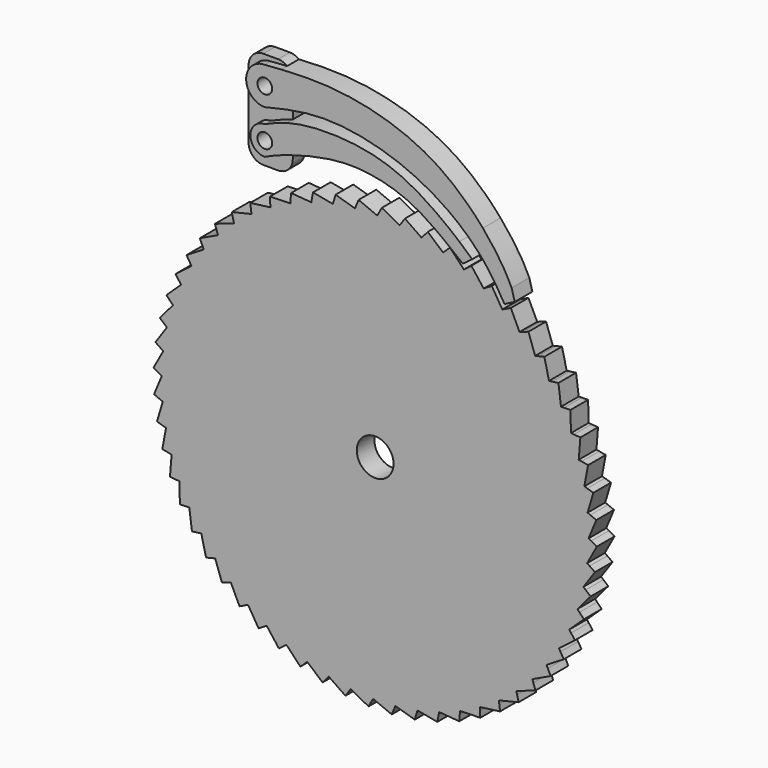
from build123d import *

# Parameters (mm, degrees)
F1_DEPTH = 3
F2_COUNT = 60
F0_R     = 2.5
F3_DEPTH = 3
F0_R_2   = 1
F4_DEPTH = 2
F5_DEPTH = 3
F6_DEPTH = 3


with BuildPart() as f1:
    # F0 (on Front) → F1 (new body)
    with BuildSketch(Plane.XZ):
        with BuildLine():
            ThreePointArc((22.1246115229, 8.6226173827), (23.4884179366, 7.9554183054), (24.8154367993, 7.2177574885))
            Line((24.8154367993, 7.2177574885), (23.1454847076, 9.4028260095))
            Line((23.1454847076, 9.4028260095), (22.4481243823, 8.8698640805))
            Line((22.4481243823, 8.8698640805), (22.1246115229, 8.6226173827))
        make_face()
    extrude(amount=F1_DEPTH)


with BuildPart() as f2_1:
    # F2: instance of F1
    add(f1.part.rotate(Axis((10.0668623269, 0, -17.7518150154), (0, -1, 0)), 1 * 360 / F2_COUNT))


with BuildPart() as f2_2:
    # F2: instance of F1
    add(f1.part.rotate(Axis((10.0668623269, 0, -17.7518150154), (0, -1, 0)), 2 * 360 / F2_COUNT))


with BuildPart() as f2_3:
    # F2: instance of F1
    add(f1.part.rotate(Axis((10.0668623269, 0, -17.7518150154), (0, -1, 0)), 3 * 360 / F2_COUNT))


with BuildPart() as f2_4:
    # F2: instance of F1
    add(f1.part.rotate(Axis((10.0668623269, 0, -17.7518150154), (0, -1, 0)), 4 * 360 / F2_COUNT))


with BuildPart() as f2_5:
    # F2: instance of F1
    add(f1.part.rotate(Axis((10.0668623269, 0, -17.7518150154), (0, -1, 0)), 5 * 360 / F2_COUNT))


with BuildPart() as f2_6:
    # F2: instance of F1
    add(f1.part.rotate(Axis((10.0668623269, 0, -17.7518150154), (0, -1, 0)), 6 * 360 / F2_COUNT))


with BuildPart() as f2_7:
    # F2: instance of F1
    add(f1.part.rotate(Axis((10.0668623269, 0, -17.7518150154), (0, -1, 0)), 7 * 360 / F2_COUNT))


with BuildPart() as f2_8:
    # F2: instance of F1
    add(f1.part.rotate(Axis((10.0668623269, 0, -17.7518150154), (0, -1, 0)), 8 * 360 / F2_COUNT))


with BuildPart() as f2_9:
    # F2: instance of F1
    add(f1.part.rotate(Axis((10.0668623269, 0, -17.7518150154), (0, -1, 0)), 9 * 360 / F2_COUNT))


with BuildPart() as f2_10:
    # F2: instance of F1
    add(f1.part.rotate(Axis((10.0668623269, 0, -17.7518150154), (0, -1, 0)), 10 * 360 / F2_COUNT))


with BuildPart() as f2_11:
    # F2: instance of F1
    add(f1.part.rotate(Axis((10.0668623269, 0, -17.7518150154), (0, -1, 0)), 11 * 360 / F2_COUNT))


with BuildPart() as f2_12:
    # F2: instance of F1
    add(f1.part.rotate(Axis((10.0668623269, 0, -17.7518150154), (0, -1, 0)), 12 * 360 / F2_COUNT))


with BuildPart() as f2_13:
    # F2: instance of F1
    add(f1.part.rotate(Axis((10.0668623269, 0, -17.7518150154), (0, -1, 0)), 13 * 360 / F2_COUNT))


with BuildPart() as f2_14:
    # F2: instance of F1
    add(f1.part.rotate(Axis((10.0668623269, 0, -17.7518150154), (0, -1, 0)), 14 * 360 / F2_COUNT))


with BuildPart() as f2_15:
    # F2: instance of F1
    add(f1.part.rotate(Axis((10.0668623269, 0, -17.7518150154), (0, -1, 0)), 15 * 360 / F2_COUNT))


with BuildPart() as f2_16:
    # F2: instance of F1
    add(f1.part.rotate(Axis((10.0668623269, 0, -17.7518150154), (0, -1, 0)), 16 * 360 / F2_COUNT))


with BuildPart() as f2_17:
    # F2: instance of F1
    add(f1.part.rotate(Axis((10.0668623269, 0, -17.7518150154), (0, -1, 0)), 17 * 360 / F2_COUNT))


with BuildPart() as f2_18:
    # F2: instance of F1
    add(f1.part.rotate(Axis((10.0668623269, 0, -17.7518150154), (0, -1, 0)), 18 * 360 / F2_COUNT))


with BuildPart() as f2_19:
    # F2: instance of F1
    add(f1.part.rotate(Axis((10.0668623269, 0, -17.7518150154), (0, -1, 0)), 19 * 360 / F2_COUNT))


with BuildPart() as f2_20:
    # F2: instance of F1
    add(f1.part.rotate(Axis((10.0668623269, 0, -17.7518150154), (0, -1, 0)), 20 * 360 / F2_COUNT))


with BuildPart() as f2_21:
    # F2: instance of F1
    add(f1.part.rotate(Axis((10.0668623269, 0, -17.7518150154), (0, -1, 0)), 21 * 360 / F2_COUNT))


with BuildPart() as f2_22:
    # F2: instance of F1
    add(f1.part.rotate(Axis((10.0668623269, 0, -17.7518150154), (0, -1, 0)), 22 * 360 / F2_COUNT))


with BuildPart() as f2_23:
    # F2: instance of F1
    add(f1.part.rotate(Axis((10.0668623269, 0, -17.7518150154), (0, -1, 0)), 23 * 360 / F2_COUNT))


with BuildPart() as f2_24:
    # F2: instance of F1
    add(f1.part.rotate(Axis((10.0668623269, 0, -17.7518150154), (0, -1, 0)), 24 * 360 / F2_COUNT))


with BuildPart() as f2_25:
    # F2: instance of F1
    add(f1.part.rotate(Axis((10.0668623269, 0, -17.7518150154), (0, -1, 0)), 25 * 360 / F2_COUNT))


with BuildPart() as f2_26:
    # F2: instance of F1
    add(f1.part.rotate(Axis((10.0668623269, 0, -17.7518150154), (0, -1, 0)), 26 * 360 / F2_COUNT))


with BuildPart() as f2_27:
    # F2: instance of F1
    add(f1.part.rotate(Axis((10.0668623269, 0, -17.7518150154), (0, -1, 0)), 27 * 360 / F2_COUNT))


with BuildPart() as f2_28:
    # F2: instance of F1
    add(f1.part.rotate(Axis((10.0668623269, 0, -17.7518150154), (0, -1, 0)), 28 * 360 / F2_COUNT))


with BuildPart() as f2_29:
    # F2: instance of F1
    add(f1.part.rotate(Axis((10.0668623269, 0, -17.7518150154), (0, -1, 0)), 29 * 360 / F2_COUNT))


with BuildPart() as f2_30:
    # F2: instance of F1
    add(f1.part.rotate(Axis((10.0668623269, 0, -17.7518150154), (0, -1, 0)), 30 * 360 / F2_COUNT))


with BuildPart() as f2_31:
    # F2: instance of F1
    add(f1.part.rotate(Axis((10.0668623269, 0, -17.7518150154), (0, -1, 0)), 31 * 360 / F2_COUNT))


with BuildPart() as f2_32:
    # F2: instance of F1
    add(f1.part.rotate(Axis((10.0668623269, 0, -17.7518150154), (0, -1, 0)), 32 * 360 / F2_COUNT))


with BuildPart() as f2_33:
    # F2: instance of F1
    add(f1.part.rotate(Axis((10.0668623269, 0, -17.7518150154), (0, -1, 0)), 33 * 360 / F2_COUNT))


with BuildPart() as f2_34:
    # F2: instance of F1
    add(f1.part.rotate(Axis((10.0668623269, 0, -17.7518150154), (0, -1, 0)), 34 * 360 / F2_COUNT))


with BuildPart() as f2_35:
    # F2: instance of F1
    add(f1.part.rotate(Axis((10.0668623269, 0, -17.7518150154), (0, -1, 0)), 35 * 360 / F2_COUNT))


with BuildPart() as f2_36:
    # F2: instance of F1
    add(f1.part.rotate(Axis((10.0668623269, 0, -17.7518150154), (0, -1, 0)), 36 * 360 / F2_COUNT))


with BuildPart() as f2_37:
    # F2: instance of F1
    add(f1.part.rotate(Axis((10.0668623269, 0, -17.7518150154), (0, -1, 0)), 37 * 360 / F2_COUNT))


with BuildPart() as f2_38:
    # F2: instance of F1
    add(f1.part.rotate(Axis((10.0668623269, 0, -17.7518150154), (0, -1, 0)), 38 * 360 / F2_COUNT))


with BuildPart() as f2_39:
    # F2: instance of F1
    add(f1.part.rotate(Axis((10.0668623269, 0, -17.7518150154), (0, -1, 0)), 39 * 360 / F2_COUNT))


with BuildPart() as f2_40:
    # F2: instance of F1
    add(f1.part.rotate(Axis((10.0668623269, 0, -17.7518150154), (0, -1, 0)), 40 * 360 / F2_COUNT))


with BuildPart() as f2_41:
    # F2: instance of F1
    add(f1.part.rotate(Axis((10.0668623269, 0, -17.7518150154), (0, -1, 0)), 41 * 360 / F2_COUNT))


with BuildPart() as f2_42:
    # F2: instance of F1
    add(f1.part.rotate(Axis((10.0668623269, 0, -17.7518150154), (0, -1, 0)), 42 * 360 / F2_COUNT))


with BuildPart() as f2_43:
    # F2: instance of F1
    add(f1.part.rotate(Axis((10.0668623269, 0, -17.7518150154), (0, -1, 0)), 43 * 360 / F2_COUNT))


with BuildPart() as f2_44:
    # F2: instance of F1
    add(f1.part.rotate(Axis((10.0668623269, 0, -17.7518150154), (0, -1, 0)), 44 * 360 / F2_COUNT))


with BuildPart() as f2_45:
    # F2: instance of F1
    add(f1.part.rotate(Axis((10.0668623269, 0, -17.7518150154), (0, -1, 0)), 45 * 360 / F2_COUNT))


with BuildPart() as f2_46:
    # F2: instance of F1
    add(f1.part.rotate(Axis((10.0668623269, 0, -17.7518150154), (0, -1, 0)), 46 * 360 / F2_COUNT))


with BuildPart() as f2_47:
    # F2: instance of F1
    add(f1.part.rotate(Axis((10.0668623269, 0, -17.7518150154), (0, -1, 0)), 47 * 360 / F2_COUNT))


with BuildPart() as f2_48:
    # F2: instance of F1
    add(f1.part.rotate(Axis((10.0668623269, 0, -17.7518150154), (0, -1, 0)), 48 * 360 / F2_COUNT))


with BuildPart() as f2_49:
    # F2: instance of F1
    add(f1.part.rotate(Axis((10.0668623269, 0, -17.7518150154), (0, -1, 0)), 49 * 360 / F2_COUNT))


with BuildPart() as f2_50:
    # F2: instance of F1
    add(f1.part.rotate(Axis((10.0668623269, 0, -17.7518150154), (0, -1, 0)), 50 * 360 / F2_COUNT))


with BuildPart() as f2_51:
    # F2: instance of F1
    add(f1.part.rotate(Axis((10.0668623269, 0, -17.7518150154), (0, -1, 0)), 51 * 360 / F2_COUNT))


with BuildPart() as f2_52:
    # F2: instance of F1
    add(f1.part.rotate(Axis((10.0668623269, 0, -17.7518150154), (0, -1, 0)), 52 * 360 / F2_COUNT))


with BuildPart() as f2_53:
    # F2: instance of F1
    add(f1.part.rotate(Axis((10.0668623269, 0, -17.7518150154), (0, -1, 0)), 53 * 360 / F2_COUNT))


with BuildPart() as f2_54:
    # F2: instance of F1
    add(f1.part.rotate(Axis((10.0668623269, 0, -17.7518150154), (0, -1, 0)), 54 * 360 / F2_COUNT))


with BuildPart() as f2_55:
    # F2: instance of F1
    add(f1.part.rotate(Axis((10.0668623269, 0, -17.7518150154), (0, -1, 0)), 55 * 360 / F2_COUNT))


with BuildPart() as f2_56:
    # F2: instance of F1
    add(f1.part.rotate(Axis((10.0668623269, 0, -17.7518150154), (0, -1, 0)), 56 * 360 / F2_COUNT))


with BuildPart() as f2_57:
    # F2: instance of F1
    add(f1.part.rotate(Axis((10.0668623269, 0, -17.7518150154), (0, -1, 0)), 57 * 360 / F2_COUNT))


with BuildPart() as f2_58:
    # F2: instance of F1
    add(f1.part.rotate(Axis((10.0668623269, 0, -17.7518150154), (0, -1, 0)), 58 * 360 / F2_COUNT))


with BuildPart() as f2_59:
    # F2: instance of F1
    add(f1.part.rotate(Axis((10.0668623269, 0, -17.7518150154), (0, -1, 0)), 59 * 360 / F2_COUNT))


with BuildPart() as f1_1:
    add(f1.part)

    add(f2_1.part)  # F3 merges F2_1

    add(f2_2.part)  # F3 merges F2_2

    add(f2_3.part)  # F3 merges F2_3

    add(f2_4.part)  # F3 merges F2_4

    add(f2_5.part)  # F3 merges F2_5

    add(f2_6.part)  # F3 merges F2_6

    add(f2_7.part)  # F3 merges F2_7

    add(f2_8.part)  # F3 merges F2_8

    add(f2_9.part)  # F3 merges F2_9

    add(f2_10.part)  # F3 merges F2_10

    add(f2_11.part)  # F3 merges F2_11

    add(f2_12.part)  # F3 merges F2_12

    add(f2_13.part)  # F3 merges F2_13

    add(f2_14.part)  # F3 merges F2_14

    add(f2_15.part)  # F3 merges F2_15

    add(f2_16.part)  # F3 merges F2_16

    add(f2_17.part)  # F3 merges F2_17

    add(f2_18.part)  # F3 merges F2_18

    add(f2_19.part)  # F3 merges F2_19

    add(f2_20.part)  # F3 merges F2_20

    add(f2_21.part)  # F3 merges F2_21

    add(f2_22.part)  # F3 merges F2_22

    add(f2_23.part)  # F3 merges F2_23

    add(f2_24.part)  # F3 merges F2_24

    add(f2_25.part)  # F3 merges F2_25

    add(f2_26.part)  # F3 merges F2_26

    add(f2_27.part)  # F3 merges F2_27

    add(f2_28.part)  # F3 merges F2_28

    add(f2_29.part)  # F3 merges F2_29

    add(f2_30.part)  # F3 merges F2_30

    add(f2_31.part)  # F3 merges F2_31

    add(f2_32.part)  # F3 merges F2_32

    add(f2_33.part)  # F3 merges F2_33

    add(f2_34.part)  # F3 merges F2_34

    add(f2_35.part)  # F3 merges F2_35

    add(f2_36.part)  # F3 merges F2_36

    add(f2_37.part)  # F3 merges F2_37

    add(f2_38.part)  # F3 merges F2_38

    add(f2_39.part)  # F3 merges F2_39

    add(f2_40.part)  # F3 merges F2_40

    add(f2_41.part)  # F3 merges F2_41

    add(f2_42.part)  # F3 merges F2_42

    add(f2_43.part)  # F3 merges F2_43

    add(f2_44.part)  # F3 merges F2_44

    add(f2_45.part)  # F3 merges F2_45

    add(f2_46.part)  # F3 merges F2_46

    add(f2_47.part)  # F3 merges F2_47

    add(f2_48.part)  # F3 merges F2_48

    add(f2_49.part)  # F3 merges F2_49

    add(f2_50.part)  # F3 merges F2_50

    add(f2_51.part)  # F3 merges F2_51

    add(f2_52.part)  # F3 merges F2_52

    add(f2_53.part)  # F3 merges F2_53

    add(f2_54.part)  # F3 merges F2_54

    add(f2_55.part)  # F3 merges F2_55

    add(f2_56.part)  # F3 merges F2_56

    add(f2_57.part)  # F3 merges F2_57

    add(f2_58.part)  # F3 merges F2_58

    add(f2_59.part)  # F3 merges F2_59
    # F0 (on Front) → F3 (join)
    with BuildSketch(Plane.XZ):
        with BuildLine():
            ThreePointArc((22.1246115229, 8.6226173827), (-14.3326738028, -33.4254437165), (39.0668623269, -17.7518150154))
            ThreePointArc((39.0668623269, -17.7518150154), (35.2532540861, -3.376639533), (24.8154367993, 7.2177574885))
            ThreePointArc((24.8154367993, 7.2177574885), (23.4884179366, 7.9554183054), (22.1246115229, 8.6226173827))
        make_face()
        with Locations((10.0668623269, -17.7518150154)):
            Circle(F0_R, mode=Mode.SUBTRACT)
    extrude(amount=F3_DEPTH)


with BuildPart() as f4:
    # F0 (on Front) → F4 (new body)
    with BuildSketch(Plane.XZ):
        with BuildLine():
            Line((-1.9331376731, 13.5972878534), (-1.9331376731, 14.5003558889))
            add(Edge.make_bspline(
                [(-4.958086005, 13.291901514), (-4.0169314096, 13.7500103955), (-3.0560498434, 14.1342507584), (-1.9331376731, 14.5003558889)],
                knots=[0, 0, 0, 0, 0.1352279707, 0.1352279707, 0.1352279707, 0.1352279707], degree=3))
            ThreePointArc((-4.958086005, 13.291901514), (-6.8895801398, 15.2476273309), (-4.9592012175, 17.2044539149))
            add(Edge.make_bspline(
                [(-4.9592012175, 17.2044539149), (-4.001760885, 17.6295620038), (-3.0344897831, 18.0275642256), (-1.9331376731, 18.335814268)],
                knots=[0, 0, 0, 0, 0.124109499, 0.124109499, 0.124109499, 0.124109499], degree=3))
            Line((-1.9331376731, 18.335814268), (-1.9331376731, 19.9359586966))
            add(Edge.make_bspline(
                [(-4.9610109698, 19.2411155336), (-3.9572175272, 19.4919216837), (-2.950348565, 19.7332965552), (-1.9331376731, 19.9359586966)],
                knots=[0, 0, 0, 0, 0.0824329006, 0.0824329006, 0.0824329006, 0.0824329006], degree=3))
            ThreePointArc((-4.9610109698, 19.2411155336), (-7.4704980477, 21.7762591858), (-4.9651396052, 24.3154830449))
            add(Edge.make_bspline(
                [(-4.9651396052, 24.3154830449), (-4.2116261683, 24.3756750122), (-3.4574308205, 24.4339151084), (-2.6977201605, 24.4828909271)],
                knots=[0, 0, 0, 0, 0.0575688257, 0.0575688257, 0.0575688257, 0.0575688257], degree=3))
            ThreePointArc((-2.6977201605, 24.4828909271), (-3.2795429223, 24.8002658788), (-3.9331376731, 24.9100770253))
            Line((-3.9331376731, 24.9100770253), (-5.9331376731, 24.9100770253))
            ThreePointArc((-5.9331376731, 24.9100770253), (-7.3473512355, 24.3242905877), (-7.9331376731, 22.9100770253))
            Line((-7.9331376731, 22.9100770253), (-7.9331376731, 13.5972878534))
            ThreePointArc((-7.9331376731, 13.5972878534), (-7.3473512355, 12.183074291), (-5.9331376731, 11.5972878534))
            Line((-5.9331376731, 11.5972878534), (-3.9331376731, 11.5972878534))
            ThreePointArc((-3.9331376731, 11.5972878534), (-2.5189241107, 12.183074291), (-1.9331376731, 13.5972878534))
        make_face()
        with BuildLine():
            add(Edge.make_bspline(
                [(-4.9610109698, 19.2411155336), (-3.9572175272, 19.4919216837), (-2.950348565, 19.7332965552), (-1.9331376731, 19.9359586966)],
                knots=[0, 0, 0, 0, 0.0824329006, 0.0824329006, 0.0824329006, 0.0824329006], degree=3))
            Line((-1.9331376731, 19.9359586966), (-1.9331376731, 22.9100770253))
            ThreePointArc((-1.9331376731, 22.9100770253), (-2.1344110367, 23.7844811009), (-2.6977201605, 24.4828909271))
            add(Edge.make_bspline(
                [(-4.9651396052, 24.3154830449), (-4.2116261683, 24.3756750122), (-3.4574308205, 24.4339151084), (-2.6977201605, 24.4828909271)],
                knots=[0, 0, 0, 0, 0.0575688257, 0.0575688257, 0.0575688257, 0.0575688257], degree=3))
            ThreePointArc((-4.9651396052, 24.3154830449), (-7.4704980477, 21.7762591858), (-4.9610109698, 19.2411155336))
        make_face()
        with Locations((-4.9331376731, 21.7783236472)):
            Circle(F0_R_2, mode=Mode.SUBTRACT)
        with BuildLine():
            add(Edge.make_bspline(
                [(-4.958086005, 13.291901514), (-4.0169314096, 13.7500103955), (-3.0560498434, 14.1342507584), (-1.9331376731, 14.5003558889)],
                knots=[0, 0, 0, 0, 0.1352279707, 0.1352279707, 0.1352279707, 0.1352279707], degree=3))
            Line((-1.9331376731, 14.5003558889), (-1.9331376731, 18.335814268))
            add(Edge.make_bspline(
                [(-4.9592012175, 17.2044539149), (-4.001760885, 17.6295620038), (-3.0344897831, 18.0275642256), (-1.9331376731, 18.335814268)],
                knots=[0, 0, 0, 0, 0.124109499, 0.124109499, 0.124109499, 0.124109499], degree=3))
            ThreePointArc((-4.9592012175, 17.2044539149), (-6.8895801398, 15.2476273309), (-4.958086005, 13.291901514))
        make_face()
        with Locations((-4.9331376731, 15.2481849846)):
            Circle(F0_R_2, mode=Mode.SUBTRACT)
    extrude(amount=F4_DEPTH)


with BuildPart() as f5:
    # F0 (on Front) → F5 (new body)
    with BuildSketch(Plane.XZ):
        with BuildLine():
            add(Edge.make_bspline(
                [(-4.9610109698, 19.2411155336), (-3.9572175272, 19.4919216837), (-2.950348565, 19.7332965552), (-1.9331376731, 19.9359586966)],
                knots=[0, 0, 0, 0, 0.0824329006, 0.0824329006, 0.0824329006, 0.0824329006], degree=3))
            Line((-1.9331376731, 19.9359586966), (-1.9331376731, 22.9100770253))
            ThreePointArc((-1.9331376731, 22.9100770253), (-2.1344110367, 23.7844811009), (-2.6977201605, 24.4828909271))
            add(Edge.make_bspline(
                [(-4.9651396052, 24.3154830449), (-4.2116261683, 24.3756750122), (-3.4574308205, 24.4339151084), (-2.6977201605, 24.4828909271)],
                knots=[0, 0, 0, 0, 0.0575688257, 0.0575688257, 0.0575688257, 0.0575688257], degree=3))
            ThreePointArc((-4.9651396052, 24.3154830449), (-7.4704980477, 21.7762591858), (-4.9610109698, 19.2411155336))
        make_face()
        with Locations((-4.9331376731, 21.7783236472)):
            Circle(F0_R_2, mode=Mode.SUBTRACT)
        with BuildLine():
            Line((24.7070899089, 14.4164794557), (25.5398504219, 9.5657391221))
            add(Edge.make_bspline(
                [(25.5398504219, 9.5657391221), (26.3188030308, 8.4987641026), (26.9954906473, 7.395759015), (27.6467091526, 6.2851834925)],
                knots=[0.8540563169, 0.8540563169, 0.8540563169, 0.8540563169, 0.9594110251, 0.9594110251, 0.9594110251, 0.9594110251], degree=3))
            Line((27.6467091526, 6.2851834925), (29.033979401, 6.9982123231))
            Line((29.033979401, 6.9982123231), (28.6152024263, 8.5355564094))
            add(Edge.make_bspline(
                [(24.7070899089, 14.4164794557), (25.926343938, 13.0025042475), (27.4763828919, 10.8338033993), (28.3567826112, 9.1091804302), (28.6152024263, 8.5355564094)],
                knots=[0.7069020625, 0.7069020625, 0.7069020625, 0.7069020625, 0.8265178742, 0.8916681029, 0.8916681029, 0.8916681029, 0.8916681029], degree=3))
        make_face()
        with BuildLine():
            Line((-1.9331376731, 22.9100770253), (-1.9331376731, 19.9359586966))
            add(Edge.make_bspline(
                [(-1.9331376731, 19.9359586966), (-0.5701671863, 20.2075076151), (3.3447925333, 20.7800586008), (10.365219854, 19.8596371214), (17.4436384884, 16.944448374), (21.3062533956, 14.0600605173), (22.6506713568, 12.8115441954)],
                knots=[0.0824329006, 0.0824329006, 0.0824329006, 0.0824329006, 0.1928855232, 0.3954301436, 0.6050658632, 0.7421164445, 0.7421164445, 0.7421164445, 0.7421164445], degree=3))
            add(Edge.make_bspline(
                [(22.6506713568, 12.8115441954), (23.3234566325, 12.1867508483), (24.3469382674, 11.1227353777), (25.219293889, 10.0048233604), (25.5398504219, 9.5657391221)],
                knots=[0.7421164445, 0.7421164445, 0.7421164445, 0.7421164445, 0.8107004829, 0.8540563169, 0.8540563169, 0.8540563169, 0.8540563169], degree=3))
            Line((25.5398504219, 9.5657391221), (24.7070899089, 14.4164794557))
            add(Edge.make_bspline(
                [(-2.6977201605, 24.4828909271), (-0.1494085539, 24.6471714274), (6.4430405711, 24.7988115891), (17.296789052, 21.7718566543), (23.0593674586, 16.3273517095), (24.7070899089, 14.4164794557)],
                knots=[0.0575688257, 0.0575688257, 0.0575688257, 0.0575688257, 0.2506730094, 0.5452510417, 0.7069020625, 0.7069020625, 0.7069020625, 0.7069020625], degree=3))
            ThreePointArc((-2.6977201605, 24.4828909271), (-2.1344110367, 23.7844811009), (-1.9331376731, 22.9100770253))
        make_face()
    extrude(amount=F5_DEPTH)


with BuildPart() as f6:
    # F0 (on Front) → F6 (new body)
    with BuildSketch(Plane.XZ):
        with BuildLine():
            add(Edge.make_bspline(
                [(-4.958086005, 13.291901514), (-4.0169314096, 13.7500103955), (-3.0560498434, 14.1342507584), (-1.9331376731, 14.5003558889)],
                knots=[0, 0, 0, 0, 0.1352279707, 0.1352279707, 0.1352279707, 0.1352279707], degree=3))
            Line((-1.9331376731, 14.5003558889), (-1.9331376731, 18.335814268))
            add(Edge.make_bspline(
                [(-4.9592012175, 17.2044539149), (-4.001760885, 17.6295620038), (-3.0344897831, 18.0275642256), (-1.9331376731, 18.335814268)],
                knots=[0, 0, 0, 0, 0.124109499, 0.124109499, 0.124109499, 0.124109499], degree=3))
            ThreePointArc((-4.9592012175, 17.2044539149), (-6.8895801398, 15.2476273309), (-4.958086005, 13.291901514))
        make_face()
        with Locations((-4.9331376731, 15.2481849846)):
            Circle(F0_R_2, mode=Mode.SUBTRACT)
        with BuildLine():
            Line((21.5134582772, 11.7630031687), (22.7788710677, 9.8609818364))
            Line((22.7788710677, 9.8609818364), (23.255080349, 10.2110656003))
            add(Edge.make_bspline(
                [(21.5134582772, 11.7630031687), (22.1934207826, 11.187631995), (22.751073054, 10.6837955358), (23.255080349, 10.2110656003)],
                knots=[0.8435488967, 0.8435488967, 0.8435488967, 0.8435488967, 0.9315976716, 0.9315976716, 0.9315976716, 0.9315976716], degree=3))
        make_face()
        with BuildLine():
            add(Edge.make_bspline(
                [(20.7183871362, 10.2782332713), (21.1340188642, 9.9461344491), (21.5507390086, 9.6072301605), (21.9680221332, 9.2648887781)],
                knots=[0.9195856781, 0.9195856781, 0.9195856781, 0.9195856781, 0.9602167459, 0.9602167459, 0.9602167459, 0.9602167459], degree=3))
            Line((21.9680221332, 9.2648887781), (22.7788710677, 9.8609818364))
            Line((22.7788710677, 9.8609818364), (21.5134582772, 11.7630031687))
            add(Edge.make_bspline(
                [(-1.9331376731, 18.335814268), (-1.5362613195, 18.4468933241), (0.8627092406, 19.0226191737), (6.8198750304, 19.1850321217), (14.4512312075, 17.294798367), (19.7067605378, 13.2917959927), (21.5134582772, 11.7630031687)],
                knots=[0.124109499, 0.124109499, 0.124109499, 0.124109499, 0.1688328213, 0.3830841354, 0.6095984637, 0.8435488967, 0.8435488967, 0.8435488967, 0.8435488967], degree=3))
            Line((-1.9331376731, 18.335814268), (-1.9331376731, 14.5003558889))
            add(Edge.make_bspline(
                [(-1.9331376731, 14.5003558889), (-1.7005077106, 14.5762006656), (0.263737771, 15.1916379836), (4.8170570457, 16.2707150243), (10.0441713237, 15.9795634499), (15.2489084229, 14.4231552082), (18.9803292141, 11.6669794855), (20.7183871362, 10.2782332713)],
                knots=[0.1352279707, 0.1352279707, 0.1352279707, 0.1352279707, 0.1632426975, 0.3649085904, 0.5507730103, 0.7496776937, 0.9195856781, 0.9195856781, 0.9195856781, 0.9195856781], degree=3))
        make_face()
        with BuildLine():
            add(Edge.make_bspline(
                [(20.7183871362, 10.2782332713), (21.1340188642, 9.9461344491), (21.5507390086, 9.6072301605), (21.9680221332, 9.2648887781)],
                knots=[0.9195856781, 0.9195856781, 0.9195856781, 0.9195856781, 0.9602167459, 0.9602167459, 0.9602167459, 0.9602167459], degree=3))
            Line((21.9680221332, 9.2648887781), (22.7788710677, 9.8609818364))
            Line((22.7788710677, 9.8609818364), (21.5134582772, 11.7630031687))
            add(Edge.make_bspline(
                [(-1.9331376731, 18.335814268), (-1.5362613195, 18.4468933241), (0.8627092406, 19.0226191737), (6.8198750304, 19.1850321217), (14.4512312075, 17.294798367), (19.7067605378, 13.2917959927), (21.5134582772, 11.7630031687)],
                knots=[0.124109499, 0.124109499, 0.124109499, 0.124109499, 0.1688328213, 0.3830841354, 0.6095984637, 0.8435488967, 0.8435488967, 0.8435488967, 0.8435488967], degree=3))
            Line((-1.9331376731, 18.335814268), (-1.9331376731, 14.5003558889))
            add(Edge.make_bspline(
                [(-1.9331376731, 14.5003558889), (-1.7005077106, 14.5762006656), (0.263737771, 15.1916379836), (4.8170570457, 16.2707150243), (10.0441713237, 15.9795634499), (15.2489084229, 14.4231552082), (18.9803292141, 11.6669794855), (20.7183871362, 10.2782332713)],
                knots=[0.1352279707, 0.1352279707, 0.1352279707, 0.1352279707, 0.1632426975, 0.3649085904, 0.5507730103, 0.7496776937, 0.9195856781, 0.9195856781, 0.9195856781, 0.9195856781], degree=3))
        make_face()
    extrude(amount=F6_DEPTH)


solid = Compound([f1_1.part, f4.part, f5.part, f6.part])
